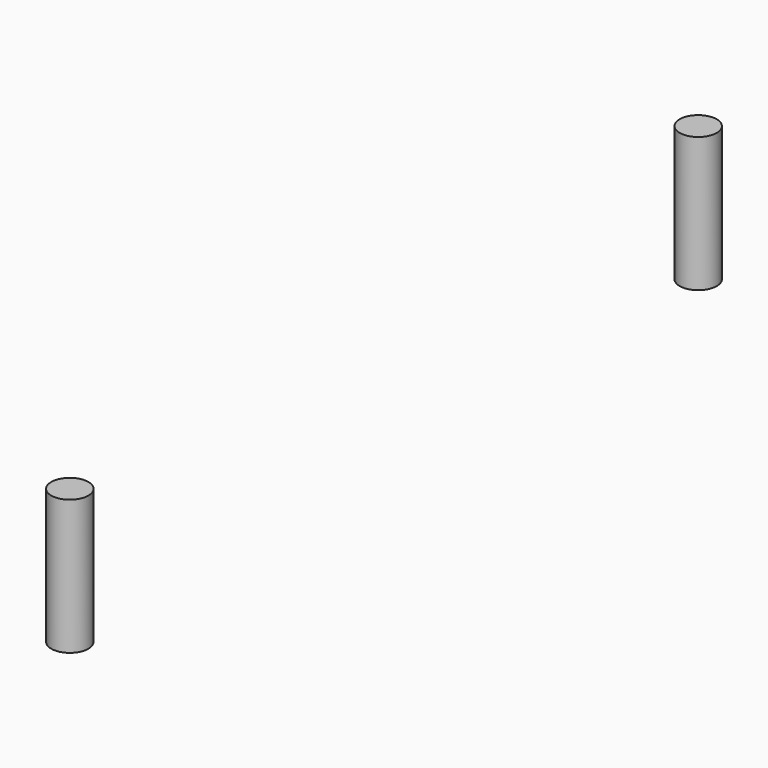
from build123d import *

# Parameters (mm, degrees)
CYLINDER009_R     = 1.375
CYLINDER009_DEPTH = 10
CYLINDER006_R     = 1.375
CYLINDER006_DEPTH = 10


with BuildPart() as cylinder009:
    # Cylinder009 → Cylinder009 (new body)
    with BuildSketch(Plane(origin=(18.75, -14.75, -3), x_dir=(1, 0, 0), z_dir=(0, 0, 1))):
        Circle(CYLINDER009_R)
    extrude(amount=CYLINDER009_DEPTH)


with BuildPart() as hole_cuts2:
    # Cylinder006 → Cylinder006 (new body)
    with BuildSketch(Plane(origin=(18.75, 43.5, -3), x_dir=(1, 0, 0), z_dir=(0, 0, 1))):
        Circle(CYLINDER006_R)
    extrude(amount=CYLINDER006_DEPTH)

    # Fusion002003003003: union Cylinder009
    add(cylinder009.part)


solid = hole_cuts2.part
